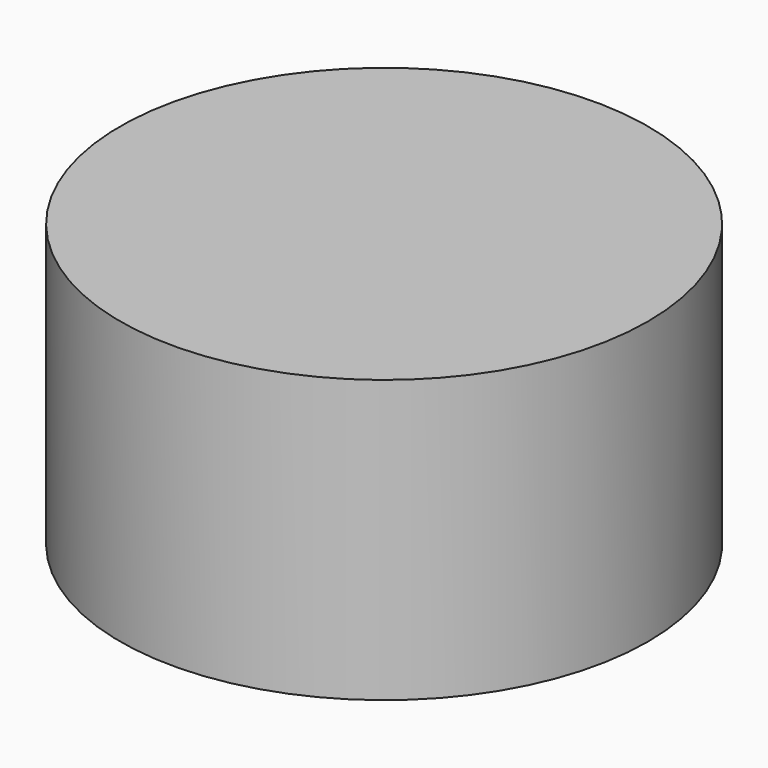
from build123d import *

# Parameters (mm, degrees)
CYLINDER_R     = 14.0462
CYLINDER_DEPTH = 15


with BuildPart() as part:
    # Cylinder → Cylinder (new body)
    with BuildSketch(Plane.XY.offset(-2.5)):
        Circle(CYLINDER_R)
    extrude(amount=CYLINDER_DEPTH)


solid = part.part
